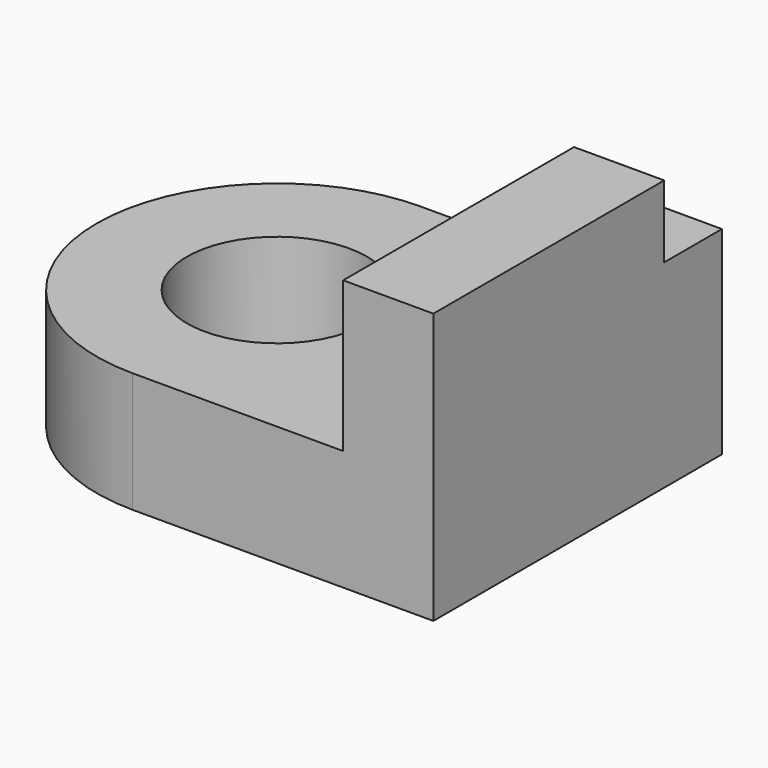
from build123d import *

# Parameters (mm, degrees)
F0_R     = 19.05
F1_DEPTH = 25.4
F3_DEPTH = 19.05


with BuildPart() as f1:
    # F0 (on Top) → F1 (new body)
    with BuildSketch(Plane.XY):
        with BuildLine():
            Line((63.5, 38.1), (0, 38.1))
            ThreePointArc((0, 38.1), (-38.1, 0), (0, -38.1))
            Line((0, -38.1), (63.5, -38.1))
            Line((63.5, -38.1), (63.5, 38.1))
        make_face()
        Circle(F0_R, mode=Mode.SUBTRACT)
    extrude(amount=F1_DEPTH)

    # F2 (on face) → F3 (join)
    with BuildSketch(Plane.YZ.offset(63.5)):
        Polygon((-38.1, 57.15), (-38.1, 25.4), (38.1, 25.4), (38.1, 41.91), (22.86, 41.91), (22.86, 57.15), align=None)
    extrude(amount=-F3_DEPTH)


solid = f1.part
